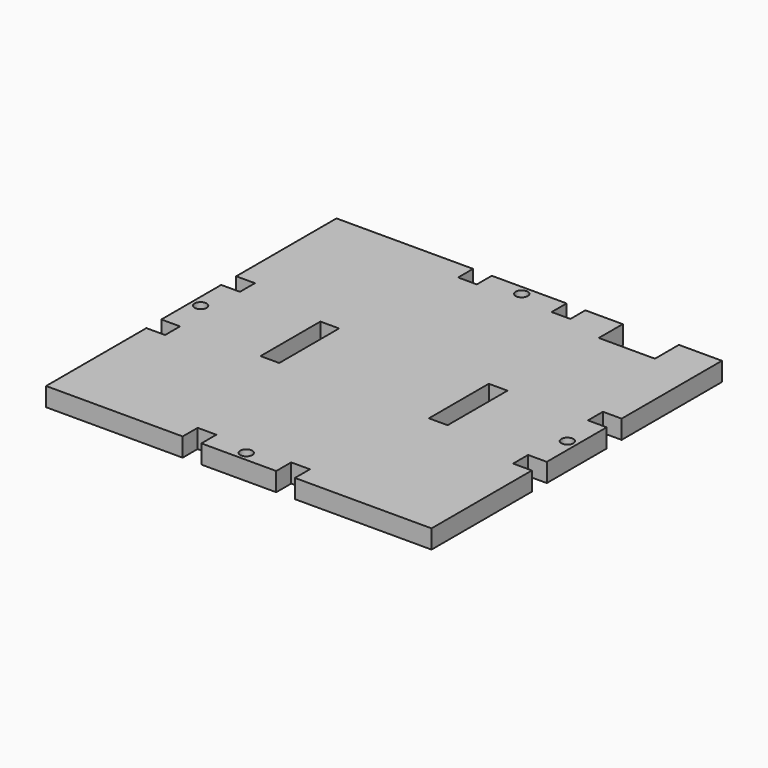
from build123d import *

# Parameters (mm, degrees)
F1_R     = 1.6
F1_W     = 5
F1_H     = 20
F2_DEPTH = 5


with BuildPart() as f2:
    # F1 (on Top) → F2 (new body)
    with BuildSketch(Plane.XY):
        Polygon((41.5, 97), (41.5, 92), (36.5, 92), (36.5, 97), (0, 97), (0, 63.5), (5, 63.5), (5, 58.5), (0, 58.5), (0, 38.5), (5, 38.5), (5, 33.5), (0, 33.5), (0, 0), (36.5, 0), (36.5, 5), (41.5, 5), (41.5, 0), (61.5, 0), (61.5, 5), (66.5, 5), (66.5, 0), (103, 0), (103, 33.5), (98, 33.5), (98, 38.5), (103, 38.5), (103, 58.5), (98, 58.5), (98, 63.5), (103, 63.5), (103, 97), (91.5, 97), (91.5, 89), (76.5, 89), (76.5, 97), (66.5, 97), (66.5, 92), (61.5, 92), (61.5, 97), align=None)
        with Locations((51.5, 2.5)):
            Circle(F1_R, mode=Mode.SUBTRACT)
        with Locations((2.5, 48.5)):
            Circle(F1_R, mode=Mode.SUBTRACT)
        with Locations((29, 48.5)):
            Rectangle(F1_W, F1_H, mode=Mode.SUBTRACT)
        with Locations((51.5, 94.5)):
            Circle(F1_R, mode=Mode.SUBTRACT)
        with Locations((74, 48.5)):
            Rectangle(F1_W, F1_H, mode=Mode.SUBTRACT)
        with Locations((100.5, 48.5)):
            Circle(F1_R, mode=Mode.SUBTRACT)
    extrude(amount=F2_DEPTH)


solid = f2.part
